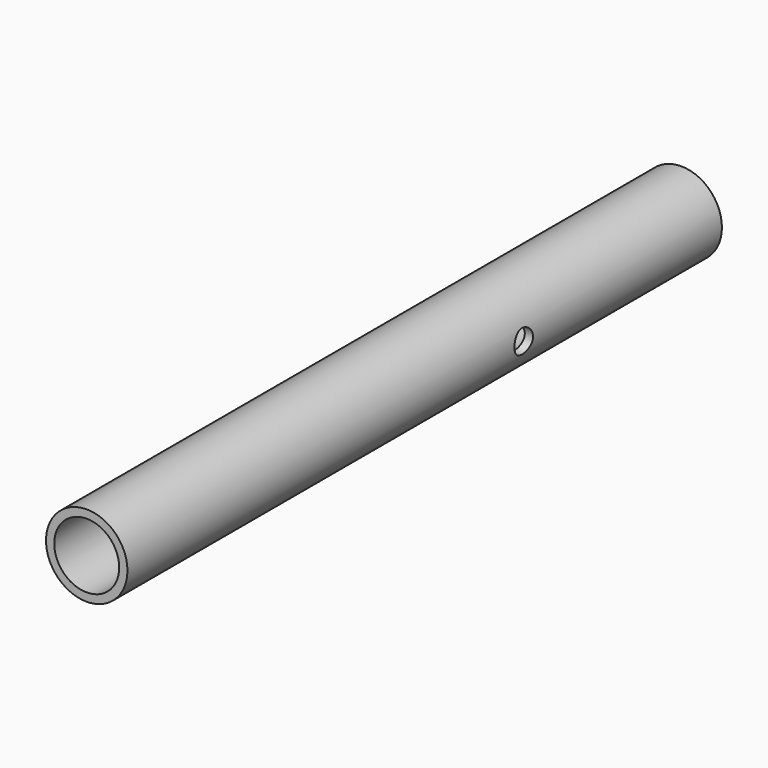
from build123d import *

# Parameters (mm, degrees)
F0_R          = 16.7005
F0_R_2        = 13.3223
F1_DEPTH      = 152.4
F2_R          = 4.7625
F3_DEPTH      = 16.7015
F3_DEPTH_BACK = 16.7015


with BuildPart() as f1:
    # F0 (on Front) → F1 (new body, symmetric)
    with BuildSketch(Plane.XZ):
        Circle(F0_R)
        Circle(F0_R_2, mode=Mode.SUBTRACT)
    extrude(amount=F1_DEPTH, both=True)

    # F2 (on Right) → F3 (cut, two sides)
    with BuildSketch(Plane.YZ) as f3_sk:
        with Locations((50.8, 0)):
            Circle(F2_R)
    extrude(amount=-F3_DEPTH, mode=Mode.SUBTRACT)
    extrude(f3_sk.sketch, amount=F3_DEPTH_BACK, mode=Mode.SUBTRACT)


solid = f1.part
